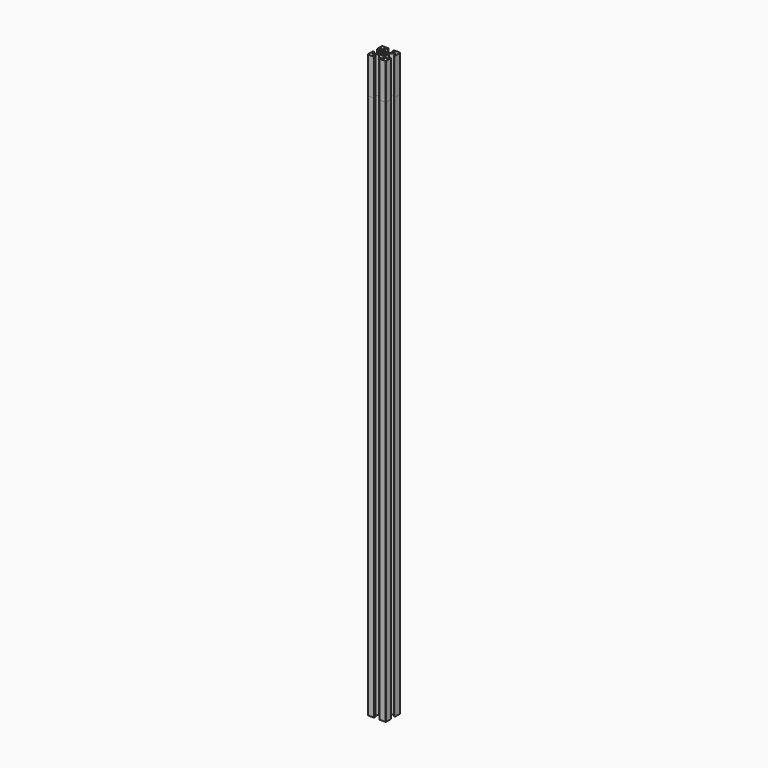
from build123d import *

# Parameters (mm, degrees)
F1_DEPTH = 640
F2_DEPTH = 600


with BuildPart() as f1:
    # F0 (on Top) → F1 (new body)
    with BuildSketch(Plane.XY):
        with BuildLine():
            Line((2.59934, 3.66), (0, 3.66))
            Line((0, 3.66), (-2.59934, 3.66))
            Line((-2.59934, 3.66), (-5.995, 7.05566))
            Line((-5.995, 7.05566), (-5.995, 7.86))
            ThreePointArc((-5.995, 7.86), (-5.848553, 8.213553), (-5.495, 8.36))
            Line((-5.495, 8.36), (-3.13, 8.36))
            ThreePointArc((-3.13, 8.36), (-2.776447, 8.506447), (-2.63, 8.86))
            Line((-2.63, 8.86), (-2.63, 9.5))
            ThreePointArc((-2.63, 9.5), (-2.776447, 9.853553), (-3.13, 10))
            Line((-3.13, 10), (-9.5, 10))
            ThreePointArc((-9.5, 10), (-9.853553, 9.853553), (-10, 9.5))
            Line((-10, 9.5), (-10, 3.13))
            ThreePointArc((-10, 3.13), (-9.853553, 2.776447), (-9.5, 2.63))
            Line((-9.5, 2.63), (-8.86, 2.63))
            ThreePointArc((-8.86, 2.63), (-8.506447, 2.776447), (-8.36, 3.13))
            Line((-8.36, 3.13), (-8.36, 5.495))
            ThreePointArc((-8.36, 5.495), (-8.213553, 5.848553), (-7.86, 5.995))
            Line((-7.86, 5.995), (-7.05566, 5.995))
            Line((-7.05566, 5.995), (-3.66, 2.59934))
            Line((-3.66, 2.59934), (-3.66, 0))
            Line((-3.66, 0), (-3.66, -2.59934))
            Line((-3.66, -2.59934), (-7.05566, -5.995))
            Line((-7.05566, -5.995), (-7.86, -5.995))
            ThreePointArc((-7.86, -5.995), (-8.213553, -5.848553), (-8.36, -5.495))
            Line((-8.36, -5.495), (-8.36, -3.13))
            ThreePointArc((-8.36, -3.13), (-8.506447, -2.776447), (-8.86, -2.63))
            Line((-8.86, -2.63), (-9.5, -2.63))
            ThreePointArc((-9.5, -2.63), (-9.853553, -2.776447), (-10, -3.13))
            Line((-10, -3.13), (-10, -9.5))
            ThreePointArc((-10, -9.5), (-9.853553, -9.853553), (-9.5, -10))
            Line((-9.5, -10), (-3.13, -10))
            ThreePointArc((-3.13, -10), (-2.776447, -9.853553), (-2.63, -9.5))
            Line((-2.63, -9.5), (-2.63, -8.86))
            ThreePointArc((-2.63, -8.86), (-2.776447, -8.506447), (-3.13, -8.36))
            Line((-3.13, -8.36), (-5.495, -8.36))
            ThreePointArc((-5.495, -8.36), (-5.848553, -8.213553), (-5.995, -7.86))
            Line((-5.995, -7.86), (-5.995, -7.05566))
            Line((-5.995, -7.05566), (-2.59934, -3.66))
            Line((-2.59934, -3.66), (0, -3.66))
            Line((0, -3.66), (2.59934, -3.66))
            Line((2.59934, -3.66), (5.995, -7.05566))
            Line((5.995, -7.05566), (5.995, -7.86))
            ThreePointArc((5.995, -7.86), (5.848553, -8.213553), (5.495, -8.36))
            Line((5.495, -8.36), (3.13, -8.36))
            ThreePointArc((3.13, -8.36), (2.776447, -8.506447), (2.63, -8.86))
            Line((2.63, -8.86), (2.63, -9.5))
            ThreePointArc((2.63, -9.5), (2.776447, -9.853553), (3.13, -10))
            Line((3.13, -10), (9.5, -10))
            ThreePointArc((9.5, -10), (9.853553, -9.853553), (10, -9.5))
            Line((10, -9.5), (10, -3.13))
            ThreePointArc((10, -3.13), (9.853553, -2.776447), (9.5, -2.63))
            Line((9.5, -2.63), (8.86, -2.63))
            ThreePointArc((8.86, -2.63), (8.506447, -2.776447), (8.36, -3.13))
            Line((8.36, -3.13), (8.36, -5.495))
            ThreePointArc((8.36, -5.495), (8.213553, -5.848553), (7.86, -5.995))
            Line((7.86, -5.995), (7.05566, -5.995))
            Line((7.05566, -5.995), (3.66, -2.59934))
            Line((3.66, -2.59934), (3.66, 0))
            Line((3.66, 0), (3.66, 2.59934))
            Line((3.66, 2.59934), (7.05566, 5.995))
            Line((7.05566, 5.995), (7.86, 5.995))
            ThreePointArc((7.86, 5.995), (8.213553, 5.848553), (8.36, 5.495))
            Line((8.36, 5.495), (8.36, 3.13))
            ThreePointArc((8.36, 3.13), (8.506447, 2.776447), (8.86, 2.63))
            Line((8.86, 2.63), (9.5, 2.63))
            ThreePointArc((9.5, 2.63), (9.853553, 2.776447), (10, 3.13))
            Line((10, 3.13), (10, 9.5))
            ThreePointArc((10, 9.5), (9.853553, 9.853553), (9.5, 10))
            Line((9.5, 10), (3.13, 10))
            ThreePointArc((3.13, 10), (2.776447, 9.853553), (2.63, 9.5))
            Line((2.63, 9.5), (2.63, 8.86))
            ThreePointArc((2.63, 8.86), (2.776447, 8.506447), (3.13, 8.36))
            Line((3.13, 8.36), (5.495, 8.36))
            ThreePointArc((5.495, 8.36), (5.848553, 8.213553), (5.995, 7.86))
            Line((5.995, 7.86), (5.995, 7.05566))
            Line((5.995, 7.05566), (2.59934, 3.66))
        make_face()
        with BuildLine():
            ThreePointArc((0, 2.095), (1.481389, 1.481389), (2.095, 0))
            ThreePointArc((2.095, 0), (1.481389, -1.481389), (0, -2.095))
            ThreePointArc((0, -2.095), (-1.481389, -1.481389), (-2.095, 0))
            ThreePointArc((-2.095, 0), (-1.481389, 1.481389), (0, 2.095))
        make_face(mode=Mode.SUBTRACT)
    extrude(amount=F1_DEPTH)


with BuildPart() as f2:
    # F0 (on Top) → F2 (new body)
    with BuildSketch(Plane.XY):
        with BuildLine():
            Line((2.59934, 3.66), (0, 3.66))
            Line((0, 3.66), (-2.59934, 3.66))
            Line((-2.59934, 3.66), (-5.995, 7.05566))
            Line((-5.995, 7.05566), (-5.995, 7.86))
            ThreePointArc((-5.995, 7.86), (-5.848553, 8.213553), (-5.495, 8.36))
            Line((-5.495, 8.36), (-3.13, 8.36))
            ThreePointArc((-3.13, 8.36), (-2.776447, 8.506447), (-2.63, 8.86))
            Line((-2.63, 8.86), (-2.63, 9.5))
            ThreePointArc((-2.63, 9.5), (-2.776447, 9.853553), (-3.13, 10))
            Line((-3.13, 10), (-9.5, 10))
            ThreePointArc((-9.5, 10), (-9.853553, 9.853553), (-10, 9.5))
            Line((-10, 9.5), (-10, 3.13))
            ThreePointArc((-10, 3.13), (-9.853553, 2.776447), (-9.5, 2.63))
            Line((-9.5, 2.63), (-8.86, 2.63))
            ThreePointArc((-8.86, 2.63), (-8.506447, 2.776447), (-8.36, 3.13))
            Line((-8.36, 3.13), (-8.36, 5.495))
            ThreePointArc((-8.36, 5.495), (-8.213553, 5.848553), (-7.86, 5.995))
            Line((-7.86, 5.995), (-7.05566, 5.995))
            Line((-7.05566, 5.995), (-3.66, 2.59934))
            Line((-3.66, 2.59934), (-3.66, 0))
            Line((-3.66, 0), (-3.66, -2.59934))
            Line((-3.66, -2.59934), (-7.05566, -5.995))
            Line((-7.05566, -5.995), (-7.86, -5.995))
            ThreePointArc((-7.86, -5.995), (-8.213553, -5.848553), (-8.36, -5.495))
            Line((-8.36, -5.495), (-8.36, -3.13))
            ThreePointArc((-8.36, -3.13), (-8.506447, -2.776447), (-8.86, -2.63))
            Line((-8.86, -2.63), (-9.5, -2.63))
            ThreePointArc((-9.5, -2.63), (-9.853553, -2.776447), (-10, -3.13))
            Line((-10, -3.13), (-10, -9.5))
            ThreePointArc((-10, -9.5), (-9.853553, -9.853553), (-9.5, -10))
            Line((-9.5, -10), (-3.13, -10))
            ThreePointArc((-3.13, -10), (-2.776447, -9.853553), (-2.63, -9.5))
            Line((-2.63, -9.5), (-2.63, -8.86))
            ThreePointArc((-2.63, -8.86), (-2.776447, -8.506447), (-3.13, -8.36))
            Line((-3.13, -8.36), (-5.495, -8.36))
            ThreePointArc((-5.495, -8.36), (-5.848553, -8.213553), (-5.995, -7.86))
            Line((-5.995, -7.86), (-5.995, -7.05566))
            Line((-5.995, -7.05566), (-2.59934, -3.66))
            Line((-2.59934, -3.66), (0, -3.66))
            Line((0, -3.66), (2.59934, -3.66))
            Line((2.59934, -3.66), (5.995, -7.05566))
            Line((5.995, -7.05566), (5.995, -7.86))
            ThreePointArc((5.995, -7.86), (5.848553, -8.213553), (5.495, -8.36))
            Line((5.495, -8.36), (3.13, -8.36))
            ThreePointArc((3.13, -8.36), (2.776447, -8.506447), (2.63, -8.86))
            Line((2.63, -8.86), (2.63, -9.5))
            ThreePointArc((2.63, -9.5), (2.776447, -9.853553), (3.13, -10))
            Line((3.13, -10), (9.5, -10))
            ThreePointArc((9.5, -10), (9.853553, -9.853553), (10, -9.5))
            Line((10, -9.5), (10, -3.13))
            ThreePointArc((10, -3.13), (9.853553, -2.776447), (9.5, -2.63))
            Line((9.5, -2.63), (8.86, -2.63))
            ThreePointArc((8.86, -2.63), (8.506447, -2.776447), (8.36, -3.13))
            Line((8.36, -3.13), (8.36, -5.495))
            ThreePointArc((8.36, -5.495), (8.213553, -5.848553), (7.86, -5.995))
            Line((7.86, -5.995), (7.05566, -5.995))
            Line((7.05566, -5.995), (3.66, -2.59934))
            Line((3.66, -2.59934), (3.66, 0))
            Line((3.66, 0), (3.66, 2.59934))
            Line((3.66, 2.59934), (7.05566, 5.995))
            Line((7.05566, 5.995), (7.86, 5.995))
            ThreePointArc((7.86, 5.995), (8.213553, 5.848553), (8.36, 5.495))
            Line((8.36, 5.495), (8.36, 3.13))
            ThreePointArc((8.36, 3.13), (8.506447, 2.776447), (8.86, 2.63))
            Line((8.86, 2.63), (9.5, 2.63))
            ThreePointArc((9.5, 2.63), (9.853553, 2.776447), (10, 3.13))
            Line((10, 3.13), (10, 9.5))
            ThreePointArc((10, 9.5), (9.853553, 9.853553), (9.5, 10))
            Line((9.5, 10), (3.13, 10))
            ThreePointArc((3.13, 10), (2.776447, 9.853553), (2.63, 9.5))
            Line((2.63, 9.5), (2.63, 8.86))
            ThreePointArc((2.63, 8.86), (2.776447, 8.506447), (3.13, 8.36))
            Line((3.13, 8.36), (5.495, 8.36))
            ThreePointArc((5.495, 8.36), (5.848553, 8.213553), (5.995, 7.86))
            Line((5.995, 7.86), (5.995, 7.05566))
            Line((5.995, 7.05566), (2.59934, 3.66))
        make_face()
        with BuildLine():
            ThreePointArc((0, 2.095), (1.481389, 1.481389), (2.095, 0))
            ThreePointArc((2.095, 0), (1.481389, -1.481389), (0, -2.095))
            ThreePointArc((0, -2.095), (-1.481389, -1.481389), (-2.095, 0))
            ThreePointArc((-2.095, 0), (-1.481389, 1.481389), (0, 2.095))
        make_face(mode=Mode.SUBTRACT)
    extrude(amount=F2_DEPTH)


solid = Compound([f1.part, f2.part])
